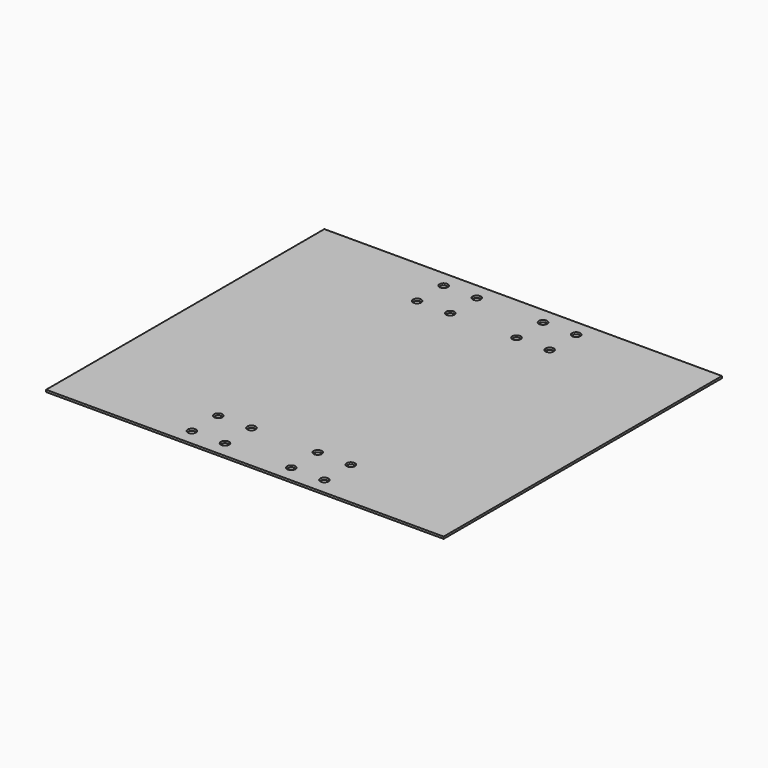
from build123d import *

# Parameters (mm, degrees)
F0_W     = 304.8
F0_H     = 266.7
F0_R     = 3.175
F1_DEPTH = 1.5875


with BuildPart() as f1:
    # F0 (on Top) → F1 (new body)
    with BuildSketch(Plane.XY):
        Rectangle(F0_W, F0_H)
        with Locations((-50.8, -120.65)):
            Circle(F0_R, mode=Mode.SUBTRACT)
        with Locations((-25.4, -120.65)):
            Circle(F0_R, mode=Mode.SUBTRACT)
        with Locations((-50.8, -95.25)):
            Circle(F0_R, mode=Mode.SUBTRACT)
        with Locations((-25.4, -95.25)):
            Circle(F0_R, mode=Mode.SUBTRACT)
        with Locations((25.4, -120.65)):
            Circle(F0_R, mode=Mode.SUBTRACT)
        with Locations((50.8, -120.65)):
            Circle(F0_R, mode=Mode.SUBTRACT)
        with Locations((25.4, -95.25)):
            Circle(F0_R, mode=Mode.SUBTRACT)
        with Locations((50.8, -95.25)):
            Circle(F0_R, mode=Mode.SUBTRACT)
        with Locations((-50.8, 95.25)):
            Circle(F0_R, mode=Mode.SUBTRACT)
        with Locations((-25.4, 95.25)):
            Circle(F0_R, mode=Mode.SUBTRACT)
        with Locations((-50.8, 120.65)):
            Circle(F0_R, mode=Mode.SUBTRACT)
        with Locations((-25.4, 120.65)):
            Circle(F0_R, mode=Mode.SUBTRACT)
        with Locations((25.4, 95.25)):
            Circle(F0_R, mode=Mode.SUBTRACT)
        with Locations((50.8, 95.25)):
            Circle(F0_R, mode=Mode.SUBTRACT)
        with Locations((25.4, 120.65)):
            Circle(F0_R, mode=Mode.SUBTRACT)
        with Locations((50.8, 120.65)):
            Circle(F0_R, mode=Mode.SUBTRACT)
    extrude(amount=F1_DEPTH)


solid = f1.part
